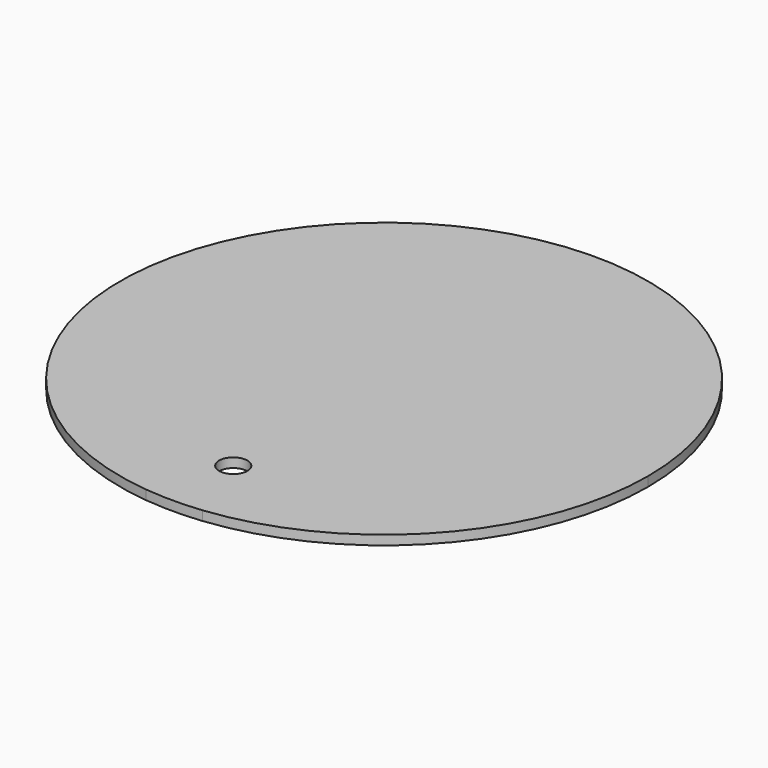
from build123d import *

# Parameters (mm, degrees)
F0_R     = 9.525
F1_DEPTH = 6.35
F2_DEPTH = 6.35


with BuildPart() as f1:
    # F0 (on Top) → F1 (new body)
    with BuildSketch(Plane.XY):
        with BuildLine():
            ThreePointArc((19.05, -176.776519), (132.287433, -118.797622), (177.8, 0))
            ThreePointArc((177.8, 0), (-118.797622, 132.287433), (-19.05, -176.776519))
            ThreePointArc((-19.05, -176.776519), (0, -177.8), (19.05, -176.776519))
        make_face()
        with Locations((0, -127)):
            Circle(F0_R, mode=Mode.SUBTRACT)
    extrude(amount=F1_DEPTH)

    # F0 (on Top) → F2 (join)
    with BuildSketch(Plane.XY):
        with BuildLine():
            ThreePointArc((19.05, -176.776519), (132.287433, -118.797622), (177.8, 0))
            ThreePointArc((177.8, 0), (-118.797622, 132.287433), (-19.05, -176.776519))
            ThreePointArc((-19.05, -176.776519), (0, -177.8), (19.05, -176.776519))
        make_face()
        with Locations((0, -127)):
            Circle(F0_R, mode=Mode.SUBTRACT)
    extrude(amount=F2_DEPTH)


solid = f1.part
